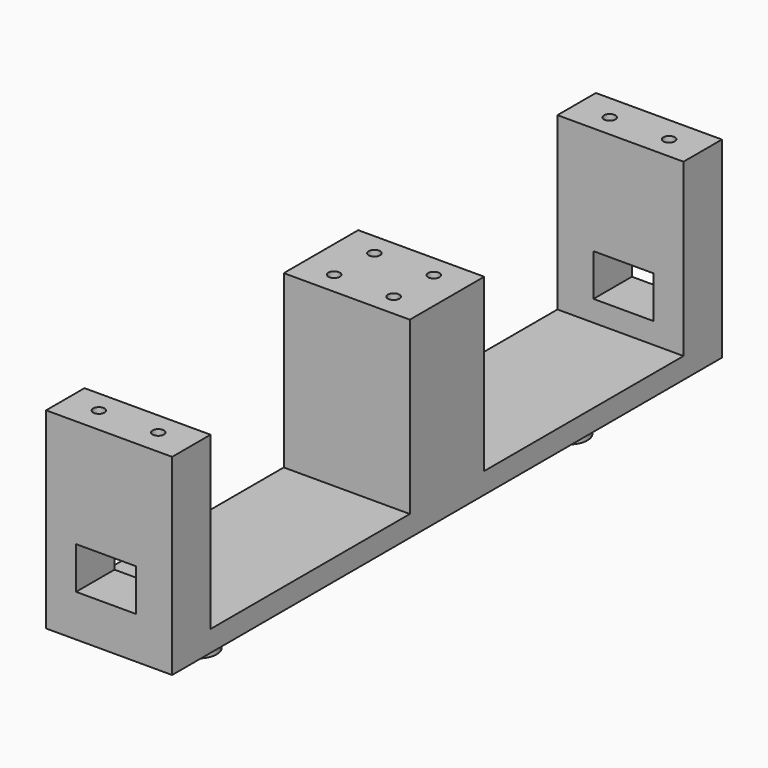
from build123d import *

# Parameters (mm, degrees)
CYLINDER050_R             = 0.9
CYLINDER050_DEPTH         = 7
CYLINDER051_R             = 0.9
CYLINDER051_DEPTH         = 7
CYLINDER043_R             = 0.95
CYLINDER043_DEPTH         = 10
CYLINDER044_R             = 0.95
CYLINDER044_DEPTH         = 10
CYLINDER041_R             = 0.95
CYLINDER041_DEPTH         = 10
CYLINDER042_R             = 0.95
CYLINDER042_DEPTH         = 10
BOX007_W                  = 10
BOX007_H                  = 10
BOX007_DEPTH              = 7
PAD016_DEPTH              = 21
CYLINDER040_R             = 3
CYLINDER040_DEPTH         = 10
CYLINDER048_R             = 0.95
CYLINDER048_DEPTH         = 10
CYLINDER049_R             = 0.95
CYLINDER049_DEPTH         = 10
CYLINDER046_R             = 0.95
CYLINDER046_DEPTH         = 10
CYLINDER047_R             = 0.95
CYLINDER047_DEPTH         = 10
BOX008_W                  = 10
BOX008_H                  = 10
BOX008_DEPTH              = 7
PAD017_DEPTH              = 21
CYLINDER045_R             = 3
CYLINDER045_DEPTH         = 10
FUSION040_PLACEMENT_ANGLE = 180


with BuildPart() as cylinder050:
    # Cylinder050 → Cylinder050 (new body)
    with BuildSketch(Plane(origin=(7, 28.5, 25), x_dir=(0, 0, 1), z_dir=(-1, 0, 0))):
        Circle(CYLINDER050_R)
    extrude(amount=CYLINDER050_DEPTH)


with BuildPart() as fusion042:
    # Cylinder051 → Cylinder051 (new body)
    with BuildSketch(Plane(origin=(7, 28.5, 5), x_dir=(0, 0, 1), z_dir=(-1, 0, 0))):
        Circle(CYLINDER051_R)
    extrude(amount=CYLINDER051_DEPTH)

    # Fusion042: union Cylinder050
    add(cylinder050.part)


with BuildPart() as cylinder043:
    # Cylinder043 → Cylinder043 (new body)
    with BuildSketch(Plane(origin=(9.9, 0, 0), x_dir=(1, 0, 0), z_dir=(0, 0, 1))):
        Circle(CYLINDER043_R)
    extrude(amount=CYLINDER043_DEPTH)


with BuildPart() as tornillos015:
    # Cylinder044 → Cylinder044 (new body)
    with BuildSketch(Plane.XY):
        Circle(CYLINDER044_R)
    extrude(amount=CYLINDER044_DEPTH)

    # Fusion034: union Cylinder043
    add(cylinder043.part)


with BuildPart() as tornillos015_1:
    # Fusion034 placement: moved
    add(tornillos015.part.moved(Location((5, -24.5, 22))))


with BuildPart() as cylinder041:
    # Cylinder041 → Cylinder041 (new body)
    with BuildSketch(Plane(origin=(9.9, 0, 0), x_dir=(1, 0, 0), z_dir=(0, 0, 1))):
        Circle(CYLINDER041_R)
    extrude(amount=CYLINDER041_DEPTH)


with BuildPart() as fusion035:
    # Cylinder042 → Cylinder042 (new body)
    with BuildSketch(Plane.XY):
        Circle(CYLINDER042_R)
    extrude(amount=CYLINDER042_DEPTH)

    # Fusion033: union Cylinder041
    add(cylinder041.part)


with BuildPart() as fusion035_1:
    # Fusion033 placement: moved
    add(fusion035.part.moved(Location((5, 24.5, 22))))

    # Fusion035: union Tornillos015
    add(tornillos015_1.part)


with BuildPart() as fusion035_2:
    # Fusion035 placement: moved
    add(fusion035_1.part.moved(Location((0.4, 0, 0))))


with BuildPart() as cube007:
    # Box007 → Box007 (new body)
    with BuildSketch(Plane(origin=(5, -29, 7), x_dir=(1, 0, 0), z_dir=(0, 0, 1))):
        with Locations((5, 5)):
            Rectangle(BOX007_W, BOX007_H)
    extrude(amount=BOX007_DEPTH)


with BuildPart() as holder008:
    # Sketch016 → Pad016 (new body)
    with BuildSketch(Plane.YZ):
        Polygon((-28.75, 32), (-28.75, 0), (28.75, 0), (28.75, 32), (20.75, 32), (20.75, 3.5), (-20.75, 3.5), (-20.75, 32), align=None)
    extrude(amount=PAD016_DEPTH)

    # Cut022: cut Cube007
    add(cube007.part, mode=Mode.SUBTRACT)

    # Cut023: cut Fusion035
    add(fusion035_2.part, mode=Mode.SUBTRACT)


with BuildPart() as obj1:
    # Cylinder040 → Cylinder040 (new body)
    with BuildSketch(Plane(origin=(10.5, -10.1, -7), x_dir=(1, 0, 0), z_dir=(0, 0, 1))):
        Circle(CYLINDER040_R)
    extrude(amount=CYLINDER040_DEPTH)

    # Fusion036: union Holder008
    add(holder008.part)


with BuildPart() as cylinder048:
    # Cylinder048 → Cylinder048 (new body)
    with BuildSketch(Plane(origin=(9.9, 0, 0), x_dir=(1, 0, 0), z_dir=(0, 0, 1))):
        Circle(CYLINDER048_R)
    extrude(amount=CYLINDER048_DEPTH)


with BuildPart() as tornillos017:
    # Cylinder049 → Cylinder049 (new body)
    with BuildSketch(Plane.XY):
        Circle(CYLINDER049_R)
    extrude(amount=CYLINDER049_DEPTH)

    # Fusion038: union Cylinder048
    add(cylinder048.part)


with BuildPart() as tornillos017_1:
    # Fusion038 placement: moved
    add(tornillos017.part.moved(Location((5, -24.5, 22))))


with BuildPart() as cylinder046:
    # Cylinder046 → Cylinder046 (new body)
    with BuildSketch(Plane(origin=(9.9, 0, 0), x_dir=(1, 0, 0), z_dir=(0, 0, 1))):
        Circle(CYLINDER046_R)
    extrude(amount=CYLINDER046_DEPTH)


with BuildPart() as fusion039:
    # Cylinder047 → Cylinder047 (new body)
    with BuildSketch(Plane.XY):
        Circle(CYLINDER047_R)
    extrude(amount=CYLINDER047_DEPTH)

    # Fusion037: union Cylinder046
    add(cylinder046.part)


with BuildPart() as fusion039_1:
    # Fusion037 placement: moved
    add(fusion039.part.moved(Location((5, 24.5, 22))))

    # Fusion039: union Tornillos017
    add(tornillos017_1.part)


with BuildPart() as fusion039_2:
    # Fusion039 placement: moved
    add(fusion039_1.part.moved(Location((0.4, 0, 0))))


with BuildPart() as cube008:
    # Box008 → Box008 (new body)
    with BuildSketch(Plane(origin=(5, -29, 7), x_dir=(1, 0, 0), z_dir=(0, 0, 1))):
        with Locations((5, 5)):
            Rectangle(BOX008_W, BOX008_H)
    extrude(amount=BOX008_DEPTH)


with BuildPart() as holder009:
    # Sketch017 → Pad017 (new body)
    with BuildSketch(Plane.YZ):
        Polygon((-28.75, 32), (-28.75, 0), (28.75, 0), (28.75, 32), (20.75, 32), (20.75, 3.5), (-20.75, 3.5), (-20.75, 32), align=None)
    extrude(amount=PAD017_DEPTH)

    # Cut024: cut Cube008
    add(cube008.part, mode=Mode.SUBTRACT)

    # Cut025: cut Fusion039
    add(fusion039_2.part, mode=Mode.SUBTRACT)


with BuildPart() as cut026:
    # Cylinder045 → Cylinder045 (new body)
    with BuildSketch(Plane(origin=(10.5, -10.1, -7), x_dir=(1, 0, 0), z_dir=(0, 0, 1))):
        Circle(CYLINDER045_R)
    extrude(amount=CYLINDER045_DEPTH)

    # Fusion040: union Holder009
    add(holder009.part)


with BuildPart() as cut026_1:
    # Fusion040 placement: moved
    add(cut026.part.moved(Location((21, 57, 0))).rotate(Axis((21, 57, 0), (0, 0, 1)), FUSION040_PLACEMENT_ANGLE))

    # Fusion041: union obj1
    add(obj1.part)

    # Cut026: cut Fusion042
    add(fusion042.part, mode=Mode.SUBTRACT)


solid = cut026_1.part
